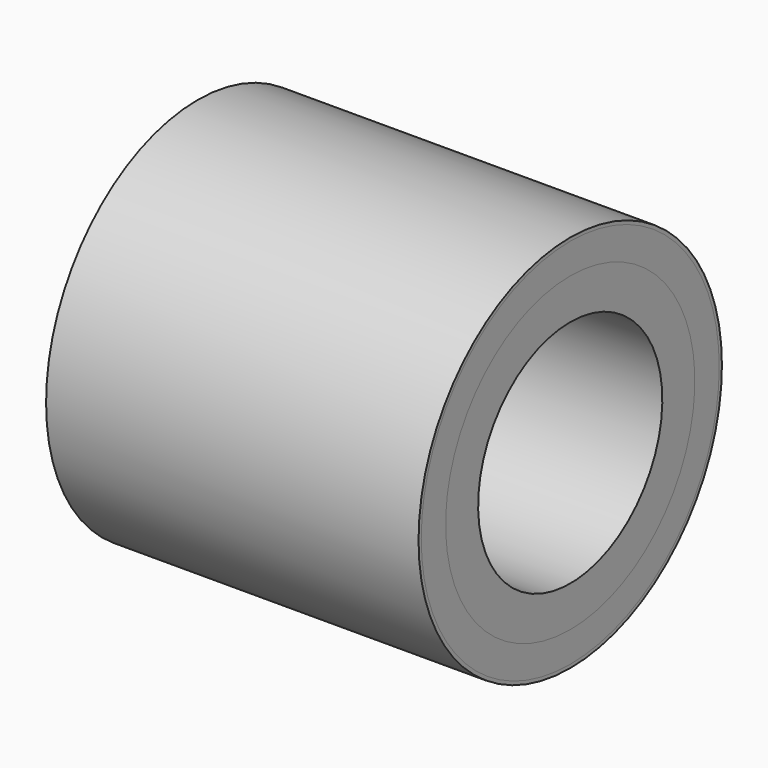
from build123d import *

# Parameters (mm, degrees)
F0_W   = 698.5
F0_H   = 6.35
F0_H_2 = 57.15
F0_H_3 = 76.2


with BuildPart() as f1:
    # F0 (on Front) → F1 (revolve)
    with BuildSketch(Plane.XZ):
        with Locations((-349.25, 352.425)):
            Rectangle(F0_W, F0_H)
    revolve(axis=Axis((5.301379, 0, 0), (1, 0, 0)))


with BuildPart() as f2:
    # F0 (on Front) → F2 (revolve)
    with BuildSketch(Plane.XZ):
        with Locations((-349.25, 320.675)):
            Rectangle(F0_W, F0_H_2)
    revolve(axis=Axis((5.301379, 0, 0), (1, 0, 0)))


with BuildPart() as f3:
    # F0 (on Front) → F3 (revolve)
    with BuildSketch(Plane.XZ):
        with Locations((-349.25, 254)):
            Rectangle(F0_W, F0_H_3)
    revolve(axis=Axis((5.301379, 0, 0), (1, 0, 0)))


solid = Compound([f1.part, f2.part, f3.part])
